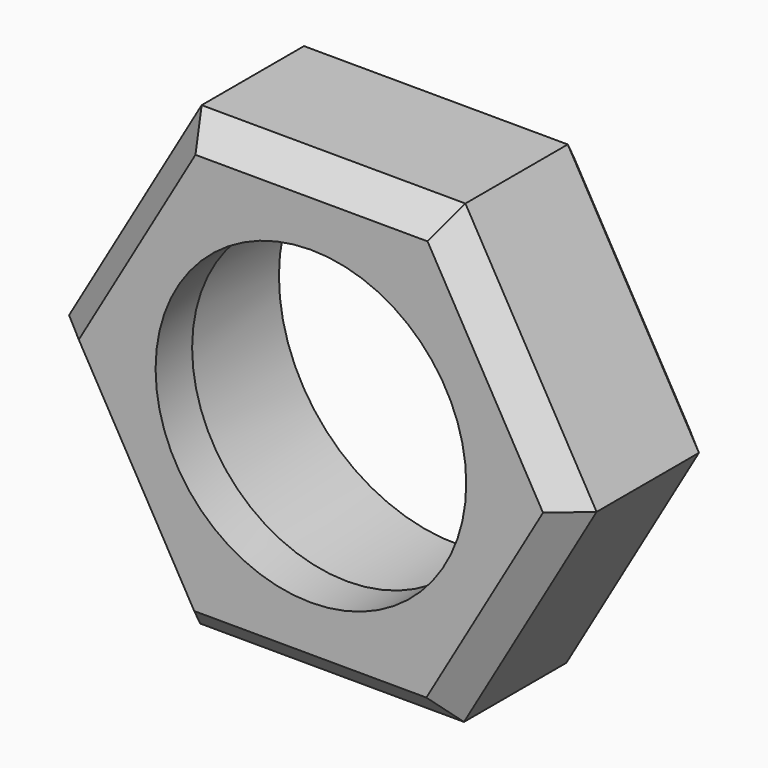
from build123d import *

# Parameters (mm, degrees)
F1_DEPTH = 20
F3_D     = 39
F4_SIZE  = 3
F5_R     = 19.5
F5_R_2   = 17
F6_DEPTH = 5


with BuildPart() as f1:
    # F0 (on Front) → F1 (new body)
    with BuildSketch(Plane.XZ):
        Polygon((14.35727, -25.044004), (28.867379, -0.088241), (14.510108, 24.955763), (-14.35727, 25.044004), (-28.867379, 0.088241), (-14.510108, -24.955763), align=None)
    extrude(amount=F1_DEPTH)

    # F3 (through all)
    with Locations(Plane.XZ.offset(20)):
        with Locations((0, 0)):
            Hole(F3_D / 2)

    # F4
    f4_edges = [f1.edges().sort_by_distance(p)[0] for p in [
        (-21.612324, -20, 12.566122),
        (0.076419, -20, 24.999883),
        (21.688743, -20, 12.433761),
        (21.612324, -20, -12.566122),
        (-0.076419, -20, -24.999883),
        (-21.688743, -20, -12.433761),
        (21.688743, 0, 12.433761),
        (21.612324, 0, -12.566122),
        (-0.076419, 0, -24.999883),
        (-21.688743, 0, -12.433761),
        (-21.612324, 0, 12.566122),
        (0.076419, 0, 24.999883),
    ]]
    chamfer(f4_edges, length=F4_SIZE)

    # F5 (on face) → F6 (join)
    with BuildSketch(Plane.XZ.offset(20)):
        Circle(F5_R)
        Circle(F5_R_2, mode=Mode.SUBTRACT)
    extrude(amount=-F6_DEPTH)


solid = f1.part
